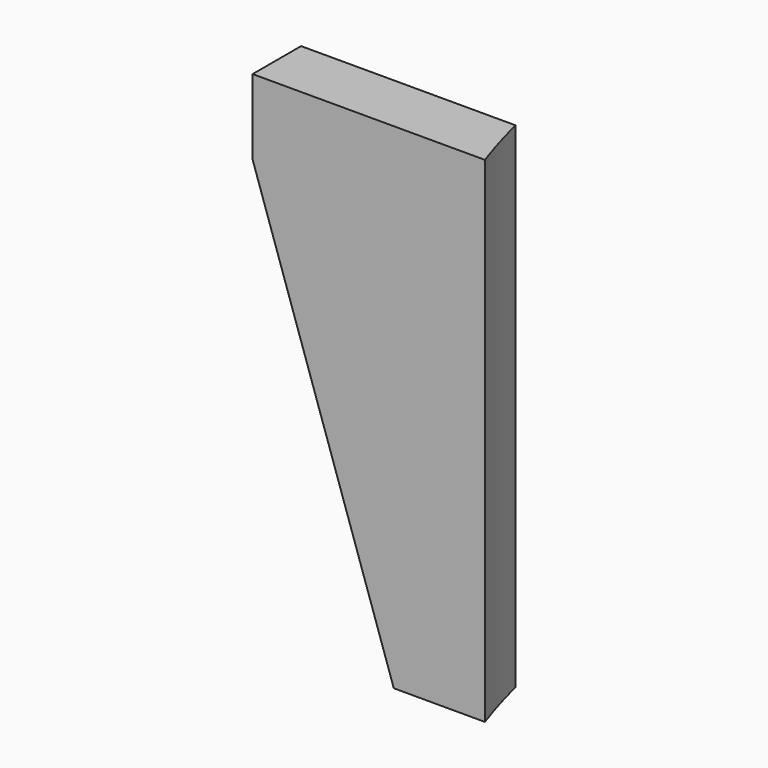
from build123d import *

# Parameters (mm, degrees)
CYLINDER1792_R         = 74
CYLINDER1792_DEPTH     = 60
BOX754_W               = 80
BOX754_H               = 6
BOX754_DEPTH           = 20
BOX754_PLACEMENT_ANGLE = 71.4
BOX752_W               = 44
BOX752_H               = 6
BOX752_DEPTH           = 49


with BuildPart() as obj1:
    # Cylinder1792 → Cylinder1792 (new body)
    with BuildSketch(Plane.XY.offset(26)):
        Circle(CYLINDER1792_R)
    extrude(amount=CYLINDER1792_DEPTH)


with BuildPart() as krychle754:
    # Box754 → Box754 (new body)
    with BuildSketch(Plane.XY):
        with Locations((40, 3)):
            Rectangle(BOX754_W, BOX754_H)
    extrude(amount=BOX754_DEPTH)


with BuildPart() as krychle754_1:
    # Box754 placement: moved
    add(krychle754.part.moved(Location((-118.17, -24, 82.63))).rotate(Axis((-118.17, -24, 82.63), (0, 1, 0)), BOX754_PLACEMENT_ANGLE))


with BuildPart() as cut555:
    # Box752 → Box752 (new body)
    with BuildSketch(Plane(origin=(-93, -24, 29), x_dir=(1, 0, 0), z_dir=(0, 0, 1))):
        with Locations((22, 3)):
            Rectangle(BOX752_W, BOX752_H)
    extrude(amount=BOX752_DEPTH)

    # Cut548: cut Krychle754
    add(krychle754_1.part, mode=Mode.SUBTRACT)

    # Cut555: cut obj1
    add(obj1.part, mode=Mode.SUBTRACT)


solid = cut555.part
